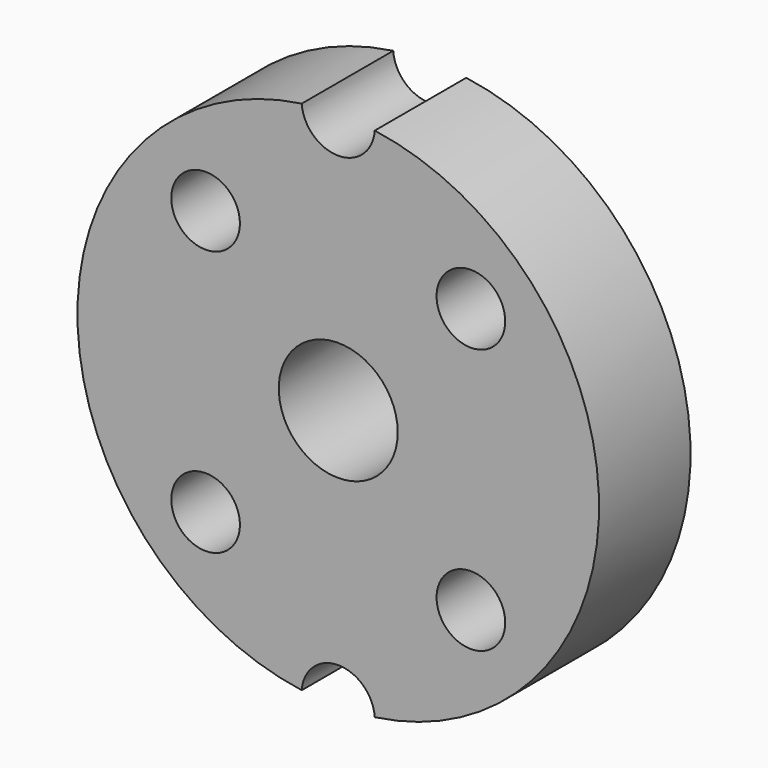
from build123d import *

# Parameters (mm, degrees)
F0_R     = 7.5
F0_R_2   = 25
F0_R_3   = 13
F1_DEPTH = 25


with BuildPart() as f1:
    # F0 (on Front) → F1 (new body)
    with BuildSketch(Plane.XZ):
        with BuildLine():
            ThreePointArc((7.980277, 56.438596), (0, 49), (-7.980277, 56.438596))
            ThreePointArc((-7.980277, 56.438596), (-57, 0), (-7.980277, -56.438596))
            ThreePointArc((-7.980277, -56.438596), (0, -49), (7.980277, -56.438596))
            ThreePointArc((7.980277, -56.438596), (57, 0), (7.980277, 56.438596))
        make_face()
        with Locations((-28.991378, -28.991378)):
            Circle(F0_R, mode=Mode.SUBTRACT)
        with Locations((28.991378, -28.991378)):
            Circle(F0_R, mode=Mode.SUBTRACT)
        Circle(F0_R_2, mode=Mode.SUBTRACT)
        with Locations((-28.991378, 28.991378)):
            Circle(F0_R, mode=Mode.SUBTRACT)
        with Locations((28.991378, 28.991378)):
            Circle(F0_R, mode=Mode.SUBTRACT)
        Circle(F0_R_2)
        Circle(F0_R_3, mode=Mode.SUBTRACT)
    extrude(amount=F1_DEPTH)


solid = f1.part
